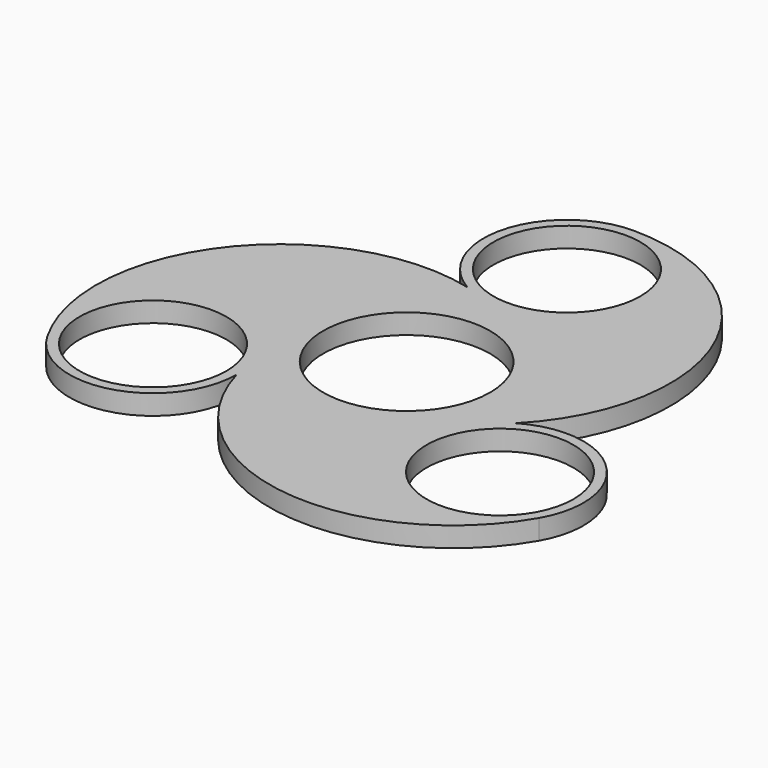
from build123d import *

# Parameters (mm, degrees)
F0_R     = 11
F0_R_2   = 12.5
F1_DEPTH = 3


with BuildPart() as f1:
    # F0 (on Top) → F1 (new body)
    with BuildSketch(Plane.XY):
        with BuildLine():
            ThreePointArc((-36.80608, -21.25), (-22.722065, -27.067763), (-13.480857, -14.951415))
            ThreePointArc((-13.480857, -14.951415), (9.572631, -34.786791), (36.80608, -21.25))
            ThreePointArc((36.80608, -21.25), (34.802403, -6.144004), (19.688733, -4.199057))
            ThreePointArc((19.688733, -4.199057), (25.33993, 25.683537), (0, 42.5))
            ThreePointArc((0, 42.5), (-12.080337, 33.211767), (-6.207877, 19.150472))
            ThreePointArc((-6.207877, 19.150472), (-34.91256, 9.103254), (-36.80608, -21.25))
        make_face()
        with Locations((-25.980762, -15)):
            Circle(F0_R, mode=Mode.SUBTRACT)
        Circle(F0_R_2, mode=Mode.SUBTRACT)
        with Locations((25.980762, -15)):
            Circle(F0_R, mode=Mode.SUBTRACT)
        with Locations((0, 30)):
            Circle(F0_R, mode=Mode.SUBTRACT)
    extrude(amount=F1_DEPTH)


solid = f1.part
